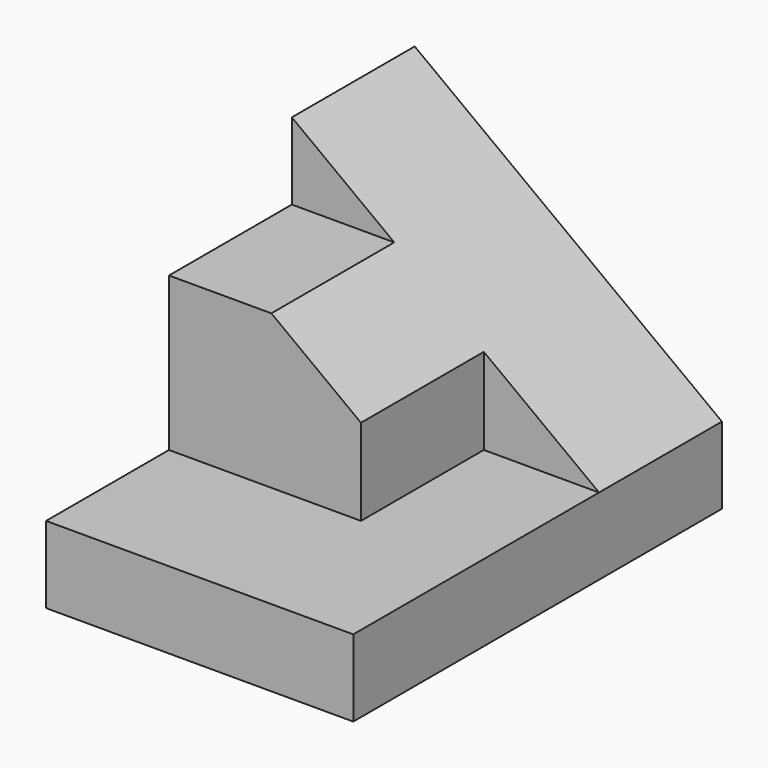
from build123d import *

# Parameters (mm, degrees)
F1_DEPTH = 38.1
F2_W     = 12.7
F2_H     = 19.05
F3_DEPTH = 25.4
F4_W     = 12.7
F4_H     = 6.35
F5_DEPTH = 25.4
F7_DEPTH = 25.4


with BuildPart() as f1:
    # F0 (on Front) → F1 (new body)
    with BuildSketch(Plane.XZ):
        Polygon((-25.4, 0), (0, 0), (0, 6.35), (-25.4, 25.4), align=None)
    extrude(amount=-F1_DEPTH)

    # F2 (on Right) → F3 (cut)
    with BuildSketch(Plane.YZ):
        with Locations((6.35, 15.875)):
            Rectangle(F2_W, F2_H)
    extrude(amount=-F3_DEPTH, mode=Mode.SUBTRACT)

    # F4 (on Right) → F5 (cut)
    with BuildSketch(Plane.YZ):
        with Locations((19.05, 22.225)):
            Rectangle(F4_W, F4_H)
    extrude(amount=-F5_DEPTH, mode=Mode.SUBTRACT)

    # F6 (on Front) → F7 (cut)
    with BuildSketch(Plane.XZ):
        Polygon((0, 6.35), (-9.525, 13.49375), (-9.525, 6.35), align=None)
    extrude(amount=-F7_DEPTH, mode=Mode.SUBTRACT)


solid = f1.part
